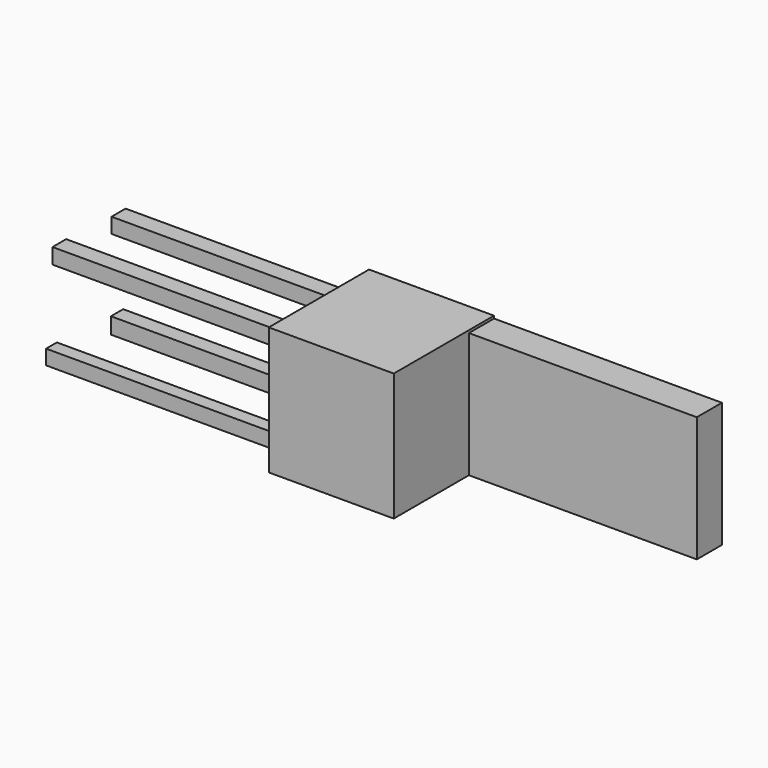
from build123d import *

# Parameters (mm, degrees)
F0_W      = 27.8634205461
F0_H      = 28.4682586789
F1_DEPTH  = 25.4
F2_W      = 3.9148032665
F2_H      = 3.3797924407
F3_DEPTH  = 50.8
F4_W      = 3.8050059229
F4_H      = 3.4576065373
F5_DEPTH  = 50.8
F6_W      = 3.416453721
F6_H      = 3.6132577807
F7_DEPTH  = 50.8
F9_W      = 3.0085314065
F9_H      = 3.2848082483
F10_DEPTH = 50.8
F8_W      = 4.4579515234
F8_H      = 27.902291331
F11_DEPTH = 50.8
F12_W     = 2.1538413306
F12_H     = 14.2136927884
F13_DEPTH = 2.54


with BuildPart() as f1:
    # F0 (on Front) → F1 (new body)
    with BuildSketch(Plane.XZ):
        with Locations((-13.931710273, -14.2341293395)):
            Rectangle(F0_W, F0_H)
    extrude(amount=F1_DEPTH)

    # F2 (on face) → F3 (join)
    with BuildSketch(Plane(origin=(-27.8634205461, 0, 0), x_dir=(0, -1, 0), z_dir=(-1, 0, 0))):
        with Locations((3.7574605085, -4.493831424)):
            Rectangle(F2_W, F2_H)
    extrude(amount=F3_DEPTH)

    # F4 (on face) → F5 (join)
    with BuildSketch(Plane(origin=(-27.8634205461, 0, 0), x_dir=(0, -1, 0), z_dir=(-1, 0, 0))):
        with Locations((20.2637864277, -3.7950236583)):
            Rectangle(F4_W, F4_H)
    extrude(amount=F5_DEPTH)

    # F6 (on face) → F7 (join)
    with BuildSketch(Plane(origin=(-27.8634205461, 0, 0), x_dir=(0, -1, 0), z_dir=(-1, 0, 0))):
        with Locations((4.1821881896, -24.0737376735)):
            Rectangle(F6_W, F6_H)
    extrude(amount=F7_DEPTH)

    # F9 (on face) → F10 (join)
    with BuildSketch(Plane(origin=(-27.8634205461, 0, 0), x_dir=(0, -1, 0), z_dir=(-1, 0, 0))):
        with Locations((22.4483674392, -22.9268092662)):
            Rectangle(F9_W, F9_H)
    extrude(amount=F10_DEPTH)

    # F8 (on face) → F11 (join)
    with BuildSketch(Plane.YZ):
        with Locations((-2.2289757617, -14.5171130134)):
            Rectangle(F8_W, F8_H)
    extrude(amount=F11_DEPTH)

    # F12 (on face) → F13 (join)
    with BuildSketch(Plane(origin=(0, 0, 0), x_dir=(-1, 0, 0), z_dir=(0, 1, 0))):
        Polygon((27.8634205461, 0), (0, 0), (0, -0.5659673479), (-50.8, -0.5659673479), (-50.8, -28.4682586789), (27.8634205461, -28.4682586789), align=None)
        with BuildLine():
            add(Edge.make_bspline(
                [(-14.5633904309, -24.9638148742), (-15.5801363384, -25.1796140055), (-17.0201805421, -25.1796140055)],
                knots=[0, 0, 0, 1, 1, 1], degree=2))
            add(Edge.make_bspline(
                [(-17.0201805421, -25.1796140055), (-20.1700178637, -25.1796140055), (-21.9939355222, -23.2581717395)],
                knots=[0, 0, 0, 1, 1, 1], degree=2))
            add(Edge.make_bspline(
                [(-21.9939355222, -23.2581717395), (-23.8178531807, -21.3367294736), (-23.8178531807, -17.9295931876)],
                knots=[0, 0, 0, 1, 1, 1], degree=2))
            add(Edge.make_bspline(
                [(-23.8178531807, -17.9295931876), (-23.8178531807, -14.4892570354), (-22.124659996, -12.4661401786)],
                knots=[0, 0, 0, 1, 1, 1], degree=2))
            add(Edge.make_bspline(
                [(-22.124659996, -12.4661401786), (-20.4314668113, -10.4430233219), (-17.5762783037, -10.4430233219)],
                knots=[0, 0, 0, 1, 1, 1], degree=2))
            add(Edge.make_bspline(
                [(-17.5762783037, -10.4430233219), (-14.9078390445, -10.4430233219), (-13.3515953086, -12.2005412477)],
                knots=[0, 0, 0, 1, 1, 1], degree=2))
            add(Edge.make_bspline(
                [(-13.3515953086, -12.2005412477), (-11.7953515726, -13.9580591735), (-11.7953515726, -16.8381475808)],
                knots=[0, 0, 0, 1, 1, 1], degree=2))
            Line((-11.7953515726, -16.8381475808), (-11.7953515726, -18.1993421019))
            Line((-11.7953515726, -18.1993421019), (-21.5851621676, -18.1993421019))
            add(Edge.make_bspline(
                [(-21.5851621676, -18.1993421019), (-21.5187624348, -20.7017820293), (-20.3194172623, -21.9986518093)],
                knots=[0, 0, 0, 1, 1, 1], degree=2))
            add(Edge.make_bspline(
                [(-20.3194172623, -21.9986518093), (-19.1200720898, -23.2955215892), (-16.9413308595, -23.2955215892)],
                knots=[0, 0, 0, 1, 1, 1], degree=2))
            add(Edge.make_bspline(
                [(-16.9413308595, -23.2955215892), (-14.6463900969, -23.2955215892), (-12.4053991171, -22.3368754479)],
                knots=[0, 0, 0, 1, 1, 1], degree=2))
            Line((-12.4053991171, -22.3368754479), (-12.4053991171, -24.2583177139))
            add(Edge.make_bspline(
                [(-12.4053991171, -24.2583177139), (-13.5466445235, -24.7480157428), (-14.5633904309, -24.9638148742)],
                knots=[0, 0, 0, 1, 1, 1], degree=2))
        make_face(mode=Mode.SUBTRACT)
        with BuildLine():
            Line((-25.6189459312, -10.7044722695), (-25.6189459312, -12.3769155378))
            Line((-25.6189459312, -12.3769155378), (-29.2377313652, -12.3769155378))
            Line((-29.2377313652, -12.3769155378), (-29.2377313652, -24.9181650579))
            Line((-29.2377313652, -24.9181650579), (-31.3915726957, -24.9181650579))
            Line((-31.3915726957, -24.9181650579), (-31.3915726957, -12.3769155378))
            Line((-31.3915726957, -12.3769155378), (-33.9313624728, -12.3769155378))
            Line((-33.9313624728, -12.3769155378), (-33.9313624728, -11.4058194465))
            Line((-33.9313624728, -11.4058194465), (-31.3915726957, -10.6256225869))
            Line((-31.3915726957, -10.6256225869), (-31.3915726957, -9.8371257607))
            add(Edge.make_bspline(
                [(-31.3915726957, -9.8371257607), (-31.3915726957, -4.595696858), (-26.8141411204, -4.595696858)],
                knots=[0, 0, 0, 1, 1, 1], degree=2))
            add(Edge.make_bspline(
                [(-26.8141411204, -4.595696858), (-25.6853456639, -4.595696858), (-24.1664517776, -5.0480450373)],
                knots=[0, 0, 0, 1, 1, 1], degree=2))
            Line((-24.1664517776, -5.0480450373), (-24.7266995225, -6.7744380883))
            add(Edge.make_bspline(
                [(-24.7266995225, -6.7744380883), (-25.9716945113, -6.3718897086), (-26.85149097, -6.3718897086)],
                knots=[0, 0, 0, 1, 1, 1], degree=2))
            add(Edge.make_bspline(
                [(-26.85149097, -6.3718897086), (-28.071586059, -6.3718897086), (-28.6546587121, -7.183211443)],
                knots=[0, 0, 0, 1, 1, 1], degree=2))
            add(Edge.make_bspline(
                [(-28.6546587121, -7.183211443), (-29.2377313652, -7.9945331773), (-29.2377313652, -9.7831759778)],
                knots=[0, 0, 0, 1, 1, 1], degree=2))
            Line((-29.2377313652, -9.7831759778), (-29.2377313652, -10.7044722695))
            Line((-29.2377313652, -10.7044722695), (-25.6189459312, -10.7044722695))
        make_face(mode=Mode.SUBTRACT)
        with Locations((-7.0456956905, -17.8113186637)):
            Rectangle(F12_W, F12_H, mode=Mode.SUBTRACT)
        with BuildLine():
            add(Edge.make_bspline(
                [(-7.9420920824, -7.9364334112), (-8.3052156208, -7.5795348477), (-8.3052156208, -6.853287771)],
                knots=[0, 0, 0, 1, 1, 1], degree=2))
            add(Edge.make_bspline(
                [(-8.3052156208, -6.853287771), (-8.3052156208, -6.1145907443), (-7.9420920824, -5.7701421307)],
                knots=[0, 0, 0, 1, 1, 1], degree=2))
            add(Edge.make_bspline(
                [(-7.9420920824, -5.7701421307), (-7.578968544, -5.4256935172), (-7.0311707489, -5.4256935172)],
                knots=[0, 0, 0, 1, 1, 1], degree=2))
            add(Edge.make_bspline(
                [(-7.0311707489, -5.4256935172), (-6.512422837, -5.4256935172), (-6.1368493487, -5.7763671057)],
                knots=[0, 0, 0, 1, 1, 1], degree=2))
            add(Edge.make_bspline(
                [(-6.1368493487, -5.7763671057), (-5.7612758604, -6.1270406942), (-5.7612758604, -6.853287771)],
                knots=[0, 0, 0, 1, 1, 1], degree=2))
            add(Edge.make_bspline(
                [(-5.7612758604, -6.853287771), (-5.7612758604, -7.5795348477), (-6.1368493487, -7.9364334112)],
                knots=[0, 0, 0, 1, 1, 1], degree=2))
            add(Edge.make_bspline(
                [(-6.1368493487, -7.9364334112), (-6.512422837, -8.2933319746), (-7.0311707489, -8.2933319746)],
                knots=[0, 0, 0, 1, 1, 1], degree=2))
            add(Edge.make_bspline(
                [(-7.0311707489, -8.2933319746), (-7.578968544, -8.2933319746), (-7.9420920824, -7.9364334112)],
                knots=[0, 0, 0, 1, 1, 1], degree=2))
        make_face(mode=Mode.SUBTRACT)
    extrude(amount=F13_DEPTH)


solid = f1.part
